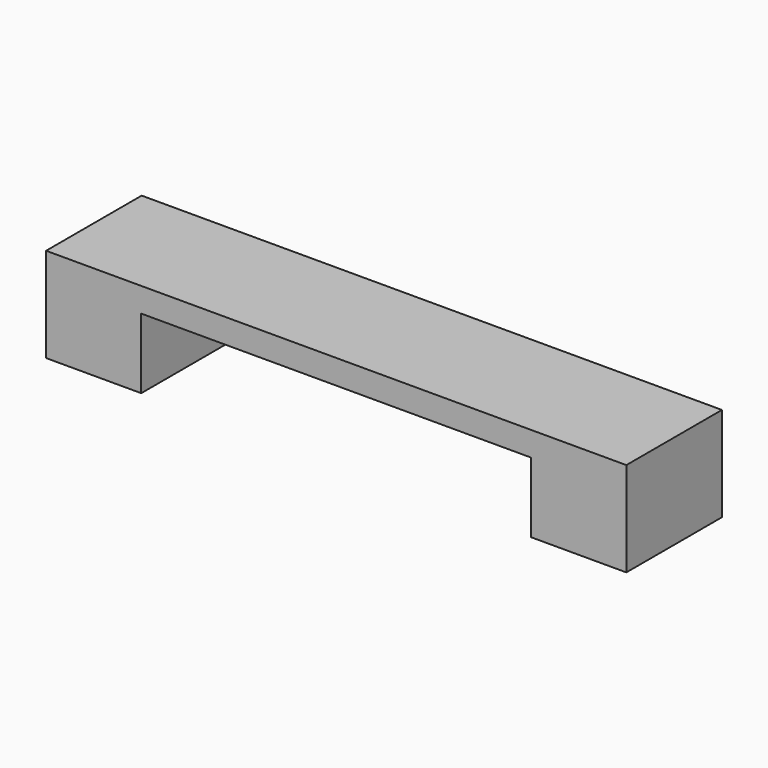
from build123d import *

# Parameters (mm, degrees)
F0_W     = 31.197554
F0_H     = 6.422928
F1_DEPTH = 5.08
F2_W     = 20.965666
F2_H     = 3.769468
F3_DEPTH = 6.423929


with BuildPart() as f1:
    # F0 (on Top) → F1 (new body)
    with BuildSketch(Plane.XY):
        Rectangle(F0_W, F0_H)
    extrude(amount=F1_DEPTH)

    # F2 (on face) → F3 (cut, through all)
    with BuildSketch(Plane.XZ.offset(3.211464)):
        with Locations((0, 1.884734)):
            Rectangle(F2_W, F2_H)
    extrude(amount=-F3_DEPTH, mode=Mode.SUBTRACT)


solid = f1.part
